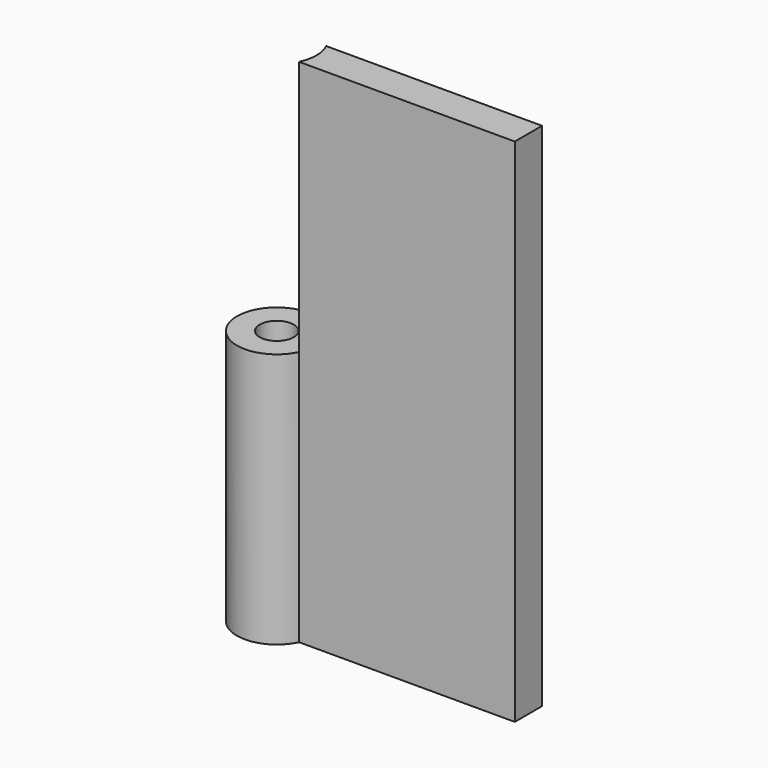
from build123d import *

# Parameters (mm, degrees)
F1_DEPTH = 90
F0_R     = 3
F2_DEPTH = 45


with BuildPart() as f1:
    # F0 (on Top) → F1 (new body)
    with BuildSketch(Plane.XY):
        with BuildLine():
            ThreePointArc((6.324555, 3), (6.829051, 1.537549), (7, 0))
            ThreePointArc((7, 0), (6.829051, -1.537549), (6.324555, -3))
            Line((6.324555, -3), (44.324555, -3))
            Line((44.324555, -3), (44.324555, 3))
            Line((44.324555, 3), (6.324555, 3))
        make_face()
    extrude(amount=F1_DEPTH)

    # F0 (on Top) → F2 (join)
    with BuildSketch(Plane.XY):
        with BuildLine():
            ThreePointArc((6.324555, -3), (6.829051, -1.537549), (7, 0))
            ThreePointArc((7, 0), (6.829051, 1.537549), (6.324555, 3))
            ThreePointArc((6.324555, 3), (-7, 0), (6.324555, -3))
        make_face()
        Circle(F0_R, mode=Mode.SUBTRACT)
    extrude(amount=F2_DEPTH)


solid = f1.part
